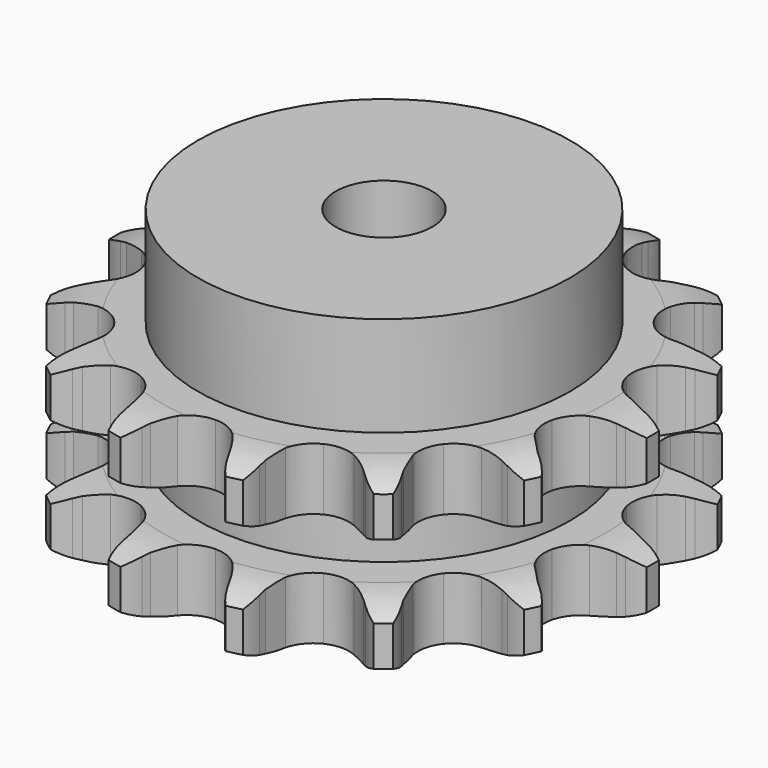
from build123d import *

# Parameters (mm, degrees)
PAD_DEPTH         = 25.5
SKETCH001_R       = 27
PAD001_DEPTH      = 40
SKETCH002_R       = 7
POCKET_DEPTH      = 0.001
POCKET_DEPTH_BACK = 40.001


with BuildPart() as part:
    # Sprocket → Pad (new body)
    with BuildSketch(Plane.XY):
        with BuildLine():
            ThreePointArc((-9.013426, 39.4904), (-7.374995, 38.000786), (-6.176591, 36.138735))
            Line((-6.176591, 36.138735), (-5.708889, 35.148664))
            ThreePointArc((-5.708889, 35.148664), (-4.928604, 33.728493), (-3.981059, 32.413999))
            ThreePointArc((-3.981059, 32.413999), (-2.202752, 31.022847), (0, 30.527301))
            ThreePointArc((0, 30.527301), (2.202752, 31.022847), (3.981059, 32.413999))
            ThreePointArc((3.981059, 32.413999), (4.928604, 33.728493), (5.708889, 35.148664))
            Line((5.708889, 35.148664), (6.176591, 36.138735))
            ThreePointArc((6.176591, 36.138735), (7.374995, 38.000786), (9.013426, 39.4904))
            ThreePointArc((9.013426, 39.4904), (9.843282, 37.437415), (10.115093, 35.239797))
            Line((10.115093, 35.239797), (10.106903, 34.144846))
            ThreePointArc((10.106903, 34.144846), (10.193726, 32.526763), (10.477097, 30.931321))
            ThreePointArc((10.477097, 30.931321), (11.475698, 28.906358), (13.2453, 27.504148))
            ThreePointArc((13.2453, 27.504148), (15.44492, 26.994881), (17.650718, 27.476687))
            Line((17.650718, 27.476687), (20.393965, 29.190858))
            ThreePointArc((20.393965, 29.190858), (20.812335, 29.544185), (21.244925, 29.879953))
            ThreePointArc((21.244925, 29.879953), (23.132564, 31.037635), (25.255059, 31.668842))
            ThreePointArc((25.255059, 31.668842), (25.111977, 29.459106), (24.403359, 27.361186))
            Line((24.403359, 27.361186), (23.920899, 26.378223))
            ThreePointArc((23.920899, 26.378223), (23.297063, 24.882709), (22.860135, 23.322315))
            ThreePointArc((22.860135, 23.322315), (22.881245, 21.06461), (23.867205, 19.033461))
            ThreePointArc((23.867205, 19.033461), (25.628032, 17.620248), (27.824435, 17.09728))
            Line((27.824435, 17.09728), (31.039766, 17.451445))
            ThreePointArc((31.039766, 17.451445), (31.570008, 17.588257), (32.105442, 17.703079))
            ThreePointArc((32.105442, 17.703079), (34.308445, 17.927099), (36.494617, 17.574881))
            ThreePointArc((36.494617, 17.574881), (35.406936, 15.646059), (33.85824, 14.063356))
            Line((33.85824, 14.063356), (32.997067, 13.387069))
            ThreePointArc((32.997067, 13.387069), (31.786131, 12.310329), (30.715444, 11.094039))
            ThreePointArc((30.715444, 11.094039), (29.754881, 9.050757), (29.761918, 6.792964))
            ThreePointArc((29.761918, 6.792964), (30.735198, 4.755709), (32.487182, 3.331548))
            Line((32.487182, 3.331548), (35.537761, 2.255559))
            ThreePointArc((35.537761, 2.255559), (36.074853, 2.148759), (36.607082, 2.019894))
            ThreePointArc((36.607082, 2.019894), (38.689118, 1.265882), (40.505969, 0))
            ThreePointArc((40.505969, 0), (38.689118, -1.265882), (36.607082, -2.019894))
            Line((36.607082, -2.019894), (35.537761, -2.255559))
            ThreePointArc((35.537761, -2.255559), (33.979566, -2.700262), (32.487182, -3.331548))
            ThreePointArc((32.487182, -3.331548), (30.735198, -4.755709), (29.761918, -6.792964))
            ThreePointArc((29.761918, -6.792964), (29.754881, -9.050757), (30.715444, -11.094039))
            Line((30.715444, -11.094039), (32.997067, -13.387069))
            ThreePointArc((32.997067, -13.387069), (33.434631, -13.716327), (33.85824, -14.063356))
            ThreePointArc((33.85824, -14.063356), (35.406936, -15.646059), (36.494617, -17.574881))
            ThreePointArc((36.494617, -17.574881), (34.308445, -17.927099), (32.105442, -17.703079))
            Line((32.105442, -17.703079), (31.039766, -17.451445))
            ThreePointArc((31.039766, -17.451445), (29.442931, -17.176034), (27.824435, -17.09728))
            ThreePointArc((27.824435, -17.09728), (25.628032, -17.620248), (23.867205, -19.033461))
            ThreePointArc((23.867205, -19.033461), (22.881245, -21.06461), (22.860135, -23.322315))
            Line((22.860135, -23.322315), (23.920899, -26.378223))
            ThreePointArc((23.920899, -26.378223), (24.172271, -26.864726), (24.403359, -27.361186))
            ThreePointArc((24.403359, -27.361186), (25.111977, -29.459106), (25.255059, -31.668842))
            ThreePointArc((25.255059, -31.668842), (23.132564, -31.037635), (21.244925, -29.879953))
            Line((21.244925, -29.879953), (20.393965, -29.190858))
            ThreePointArc((20.393965, -29.190858), (19.074763, -28.249881), (17.650718, -27.476687))
            ThreePointArc((17.650718, -27.476687), (15.44492, -26.994881), (13.2453, -27.504148))
            ThreePointArc((13.2453, -27.504148), (11.475698, -28.906358), (10.477097, -30.931321))
            Line((10.477097, -30.931321), (10.106903, -34.144846))
            ThreePointArc((10.106903, -34.144846), (10.122295, -34.692237), (10.115093, -35.239797))
            ThreePointArc((10.115093, -35.239797), (9.843282, -37.437415), (9.013426, -39.4904))
            ThreePointArc((9.013426, -39.4904), (7.374995, -38.000786), (6.176591, -36.138735))
            Line((6.176591, -36.138735), (5.708889, -35.148664))
            ThreePointArc((5.708889, -35.148664), (4.928604, -33.728493), (3.981059, -32.413999))
            ThreePointArc((3.981059, -32.413999), (2.202752, -31.022847), (0, -30.527301))
            ThreePointArc((0, -30.527301), (-2.202752, -31.022847), (-3.981059, -32.413999))
            Line((-3.981059, -32.413999), (-5.708889, -35.148664))
            ThreePointArc((-5.708889, -35.148664), (-5.932524, -35.648525), (-6.176591, -36.138735))
            ThreePointArc((-6.176591, -36.138735), (-7.374995, -38.000786), (-9.013426, -39.4904))
            ThreePointArc((-9.013426, -39.4904), (-9.843282, -37.437415), (-10.115093, -35.239797))
            Line((-10.115093, -35.239797), (-10.106903, -34.144846))
            ThreePointArc((-10.106903, -34.144846), (-10.193726, -32.526763), (-10.477097, -30.931321))
            ThreePointArc((-10.477097, -30.931321), (-11.475698, -28.906358), (-13.2453, -27.504148))
            ThreePointArc((-13.2453, -27.504148), (-15.44492, -26.994881), (-17.650718, -27.476687))
            Line((-17.650718, -27.476687), (-20.393965, -29.190858))
            ThreePointArc((-20.393965, -29.190858), (-20.812335, -29.544185), (-21.244925, -29.879953))
            ThreePointArc((-21.244925, -29.879953), (-23.132564, -31.037635), (-25.255059, -31.668842))
            ThreePointArc((-25.255059, -31.668842), (-25.111977, -29.459106), (-24.403359, -27.361186))
            Line((-24.403359, -27.361186), (-23.920899, -26.378223))
            ThreePointArc((-23.920899, -26.378223), (-23.297063, -24.882709), (-22.860135, -23.322315))
            ThreePointArc((-22.860135, -23.322315), (-22.881245, -21.06461), (-23.867205, -19.033461))
            ThreePointArc((-23.867205, -19.033461), (-25.628032, -17.620248), (-27.824435, -17.09728))
            Line((-27.824435, -17.09728), (-31.039766, -17.451445))
            ThreePointArc((-31.039766, -17.451445), (-31.570008, -17.588257), (-32.105442, -17.703079))
            ThreePointArc((-32.105442, -17.703079), (-34.308445, -17.927099), (-36.494617, -17.574881))
            ThreePointArc((-36.494617, -17.574881), (-35.406936, -15.646059), (-33.85824, -14.063356))
            Line((-33.85824, -14.063356), (-32.997067, -13.387069))
            ThreePointArc((-32.997067, -13.387069), (-31.786131, -12.310329), (-30.715444, -11.094039))
            ThreePointArc((-30.715444, -11.094039), (-29.754881, -9.050757), (-29.761918, -6.792964))
            ThreePointArc((-29.761918, -6.792964), (-30.735198, -4.755709), (-32.487182, -3.331548))
            Line((-32.487182, -3.331548), (-35.537761, -2.255559))
            ThreePointArc((-35.537761, -2.255559), (-36.074853, -2.148759), (-36.607082, -2.019894))
            ThreePointArc((-36.607082, -2.019894), (-38.689118, -1.265882), (-40.505969, 0))
            ThreePointArc((-40.505969, 0), (-38.689118, 1.265882), (-36.607082, 2.019894))
            Line((-36.607082, 2.019894), (-35.537761, 2.255559))
            ThreePointArc((-35.537761, 2.255559), (-33.979566, 2.700262), (-32.487182, 3.331548))
            ThreePointArc((-32.487182, 3.331548), (-30.735198, 4.755709), (-29.761918, 6.792964))
            ThreePointArc((-29.761918, 6.792964), (-29.754881, 9.050757), (-30.715444, 11.094039))
            Line((-30.715444, 11.094039), (-32.997067, 13.387069))
            ThreePointArc((-32.997067, 13.387069), (-33.434631, 13.716327), (-33.85824, 14.063356))
            ThreePointArc((-33.85824, 14.063356), (-35.406936, 15.646059), (-36.494617, 17.574881))
            ThreePointArc((-36.494617, 17.574881), (-34.308445, 17.927099), (-32.105442, 17.703079))
            Line((-32.105442, 17.703079), (-31.039766, 17.451445))
            ThreePointArc((-31.039766, 17.451445), (-29.442931, 17.176034), (-27.824435, 17.09728))
            ThreePointArc((-27.824435, 17.09728), (-25.628032, 17.620248), (-23.867205, 19.033461))
            ThreePointArc((-23.867205, 19.033461), (-22.881245, 21.06461), (-22.860135, 23.322315))
            Line((-22.860135, 23.322315), (-23.920899, 26.378223))
            ThreePointArc((-23.920899, 26.378223), (-24.172271, 26.864726), (-24.403359, 27.361186))
            ThreePointArc((-24.403359, 27.361186), (-25.111977, 29.459106), (-25.255059, 31.668842))
            ThreePointArc((-25.255059, 31.668842), (-23.132564, 31.037635), (-21.244925, 29.879953))
            Line((-21.244925, 29.879953), (-20.393965, 29.190858))
            ThreePointArc((-20.393965, 29.190858), (-19.074763, 28.249881), (-17.650718, 27.476687))
            ThreePointArc((-17.650718, 27.476687), (-15.44492, 26.994881), (-13.2453, 27.504148))
            ThreePointArc((-13.2453, 27.504148), (-11.475698, 28.906358), (-10.477097, 30.931321))
            Line((-10.477097, 30.931321), (-10.106903, 34.144846))
            ThreePointArc((-10.106903, 34.144846), (-10.122295, 34.692237), (-10.115093, 35.239797))
            ThreePointArc((-10.115093, 35.239797), (-9.843282, 37.437415), (-9.013426, 39.4904))
        make_face()
    extrude(amount=PAD_DEPTH)

    # Sketch → Groove (revolve, cut)
    with BuildSketch(Plane.XZ):
        with BuildLine():
            ThreePointArc((32.025762, 0), (35.60347, 0.405129), (39, 1.6))
            Line((39, 1.6), (39, 7.4))
            ThreePointArc((39, 7.4), (35.60347, 8.594871), (32.025762, 9))
            Line((27, 9), (32.025762, 9))
            Line((27, 16.5), (27, 9))
            Line((32.025762, 16.5), (27, 16.5))
            ThreePointArc((32.025762, 16.5), (35.60347, 16.905129), (39, 18.1))
            Line((39, 18.1), (39, 23.9))
            ThreePointArc((39, 23.9), (35.60347, 25.094871), (32.025762, 25.5))
            Line((32.025762, 25.5), (42.025762, 25.5))
            Line((42.025762, 25.5), (42.025762, 0))
            Line((32.025762, 0), (42.025762, 0))
        make_face()
    revolve(axis=Axis((0, 0, 0), (0, 0, 1)), mode=Mode.SUBTRACT)

    # Sketch001 → Pad001 (join)
    with BuildSketch(Plane.XY):
        Circle(SKETCH001_R)
    extrude(amount=PAD001_DEPTH)

    # Sketch002 → Pocket (cut, two sides)
    with BuildSketch(Plane.XY) as pocket_sk:
        Circle(SKETCH002_R)
    extrude(amount=-POCKET_DEPTH, mode=Mode.SUBTRACT)
    extrude(pocket_sk.sketch, amount=POCKET_DEPTH_BACK, mode=Mode.SUBTRACT)


solid = part.part
